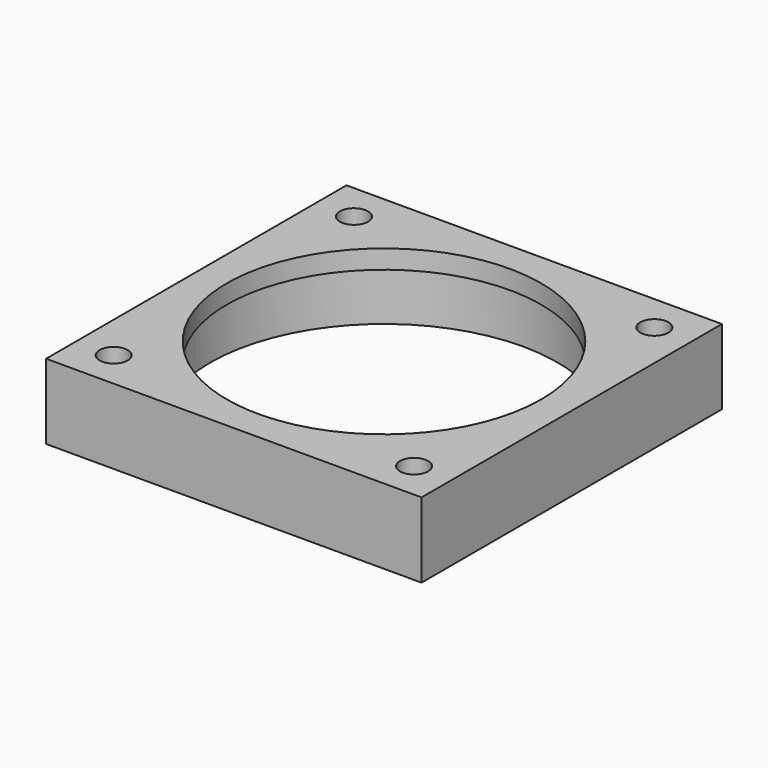
from build123d import *

# Parameters (mm, degrees)
SKETCH_W        = 40
SKETCH_H        = 40
PAD_DEPTH       = 6
POCKET_DEPTH    = 6.001
SKETCH006_R     = 18.5
POCKET001_DEPTH = 6.001
SKETCH007_W     = 40
SKETCH007_H     = 40
SKETCH007_R     = 16.75
SKETCH007_R_2   = 1.5
PAD001_DEPTH    = 2


with BuildPart() as part:
    # Sketch → Pad (new body)
    with BuildSketch(Plane.XY):
        Rectangle(SKETCH_W, SKETCH_H)
    extrude(amount=PAD_DEPTH)

    # Sketch004 (on Face6 of Pad) → Pocket (cut, through all)
    with BuildSketch(Plane.XY.offset(6)):
        with BuildLine():
            Line((12.932774, 15.178139), (15.178139, 12.932774))
            Line((15.178139, 12.932774), (15.586387, 12.524525))
            ThreePointArc((15.586387, 12.524525), (17.035276, 12.136297), (18.095936, 13.196957))
            Line((18.245366, 13.754634), (18.095936, 13.196957))
            Line((18.245366, 13.754634), (19.067226, 16.821861))
            Line((19.067226, 16.821861), (19.216656, 17.379538))
            ThreePointArc((19.216656, 17.379538), (18.828427, 18.828427), (17.379538, 19.216656))
            Line((16.821861, 19.067226), (17.379538, 19.216656))
            Line((16.821861, 19.067226), (13.754634, 18.245366))
            Line((13.754634, 18.245366), (13.196957, 18.095936))
            ThreePointArc((13.196957, 18.095936), (12.136297, 17.035276), (12.524525, 15.586387))
            Line((12.932774, 15.178139), (12.524525, 15.586387))
        make_face()
        with BuildLine():
            Line((13.754634, -18.245366), (16.821861, -19.067226))
            Line((16.821861, -19.067226), (17.379538, -19.216656))
            ThreePointArc((17.379538, -19.216656), (18.828427, -18.828427), (19.216656, -17.379538))
            Line((19.067226, -16.821861), (19.216656, -17.379538))
            Line((19.067226, -16.821861), (18.245366, -13.754634))
            Line((18.245366, -13.754634), (18.095936, -13.196957))
            ThreePointArc((18.095936, -13.196957), (17.035276, -12.136297), (15.586387, -12.524525))
            Line((15.178139, -12.932774), (15.586387, -12.524525))
            Line((15.178139, -12.932774), (12.932774, -15.178139))
            Line((12.932774, -15.178139), (12.524525, -15.586387))
            ThreePointArc((12.524525, -15.586387), (12.136297, -17.035276), (13.196957, -18.095936))
            Line((13.754634, -18.245366), (13.196957, -18.095936))
        make_face()
        with BuildLine():
            Line((-13.754634, 18.245366), (-16.821861, 19.067226))
            Line((-16.821861, 19.067226), (-17.379538, 19.216656))
            ThreePointArc((-17.379538, 19.216656), (-18.828427, 18.828427), (-19.216656, 17.379538))
            Line((-19.067226, 16.821861), (-19.216656, 17.379538))
            Line((-19.067226, 16.821861), (-18.245366, 13.754634))
            Line((-18.245366, 13.754634), (-18.095936, 13.196957))
            ThreePointArc((-18.095936, 13.196957), (-17.035276, 12.136297), (-15.586387, 12.524525))
            Line((-15.178139, 12.932774), (-15.586387, 12.524525))
            Line((-15.178139, 12.932774), (-12.932774, 15.178139))
            Line((-12.932774, 15.178139), (-12.524525, 15.586387))
            ThreePointArc((-12.524525, 15.586387), (-12.136297, 17.035276), (-13.196957, 18.095936))
            Line((-13.754634, 18.245366), (-13.196957, 18.095936))
        make_face()
        with BuildLine():
            Line((-12.932774, -15.178139), (-15.178139, -12.932774))
            Line((-15.178139, -12.932774), (-15.586387, -12.524525))
            ThreePointArc((-15.586387, -12.524525), (-17.035276, -12.136297), (-18.095936, -13.196957))
            Line((-18.245366, -13.754634), (-18.095936, -13.196957))
            Line((-18.245366, -13.754634), (-19.067226, -16.821861))
            Line((-19.067226, -16.821861), (-19.216656, -17.379538))
            ThreePointArc((-19.216656, -17.379538), (-18.828427, -18.828427), (-17.379538, -19.216656))
            Line((-16.821861, -19.067226), (-17.379538, -19.216656))
            Line((-16.821861, -19.067226), (-13.754634, -18.245366))
            Line((-13.754634, -18.245366), (-13.196957, -18.095936))
            ThreePointArc((-13.196957, -18.095936), (-12.136297, -17.035276), (-12.524525, -15.586387))
            Line((-12.932774, -15.178139), (-12.524525, -15.586387))
        make_face()
    extrude(amount=-POCKET_DEPTH, mode=Mode.SUBTRACT)

    # Sketch006 (on Face5 of Pocket) → Pocket001 (cut, through all)
    with BuildSketch(Plane.XY.offset(6)):
        Circle(SKETCH006_R)
    extrude(amount=-POCKET001_DEPTH, mode=Mode.SUBTRACT)

    # Sketch007 (on Face5 of Pocket001) → Pad001 (join)
    with BuildSketch(Plane.XY.offset(6)):
        Rectangle(SKETCH007_W, SKETCH007_H)
        Circle(SKETCH007_R, mode=Mode.SUBTRACT)
        with Locations((-16, 16)):
            Circle(SKETCH007_R_2, mode=Mode.SUBTRACT)
        with Locations((16, 16)):
            Circle(SKETCH007_R_2, mode=Mode.SUBTRACT)
        with Locations((16, -16)):
            Circle(SKETCH007_R_2, mode=Mode.SUBTRACT)
        with Locations((-16, -16)):
            Circle(SKETCH007_R_2, mode=Mode.SUBTRACT)
    extrude(amount=PAD001_DEPTH)


solid = part.part
